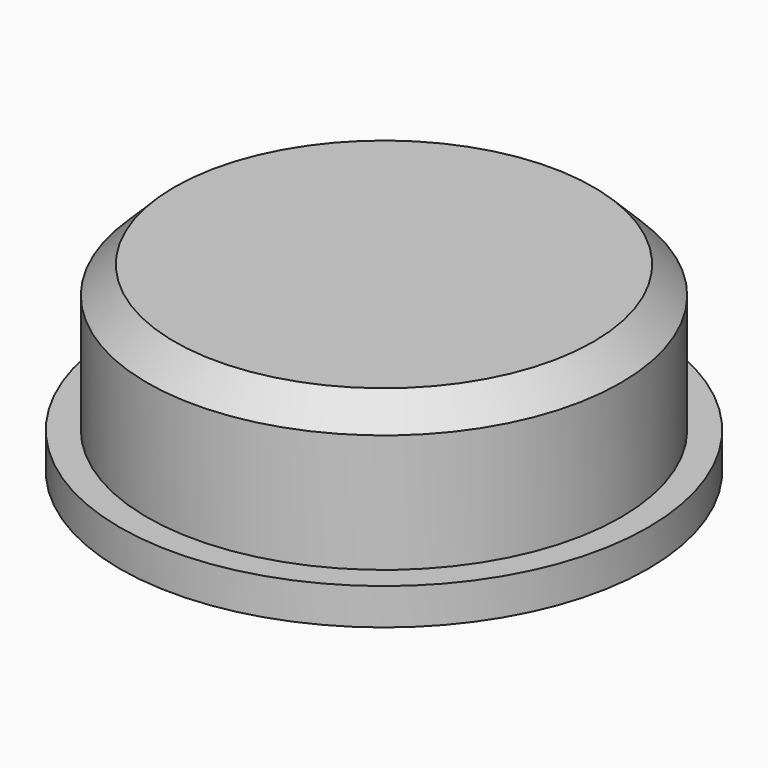
from build123d import *

# Parameters (mm, degrees)
F0_R     = 26
F0_W     = 14.36842
F0_H     = 5.710526
F1_DEPTH = 20
F0_R_2   = 29
F2_DEPTH = 4
F3_SIZE  = 3


with BuildPart() as f1:
    # F0 (on Top) → F1 (new body)
    with BuildSketch(Plane.XY):
        Circle(F0_R)
        Rectangle(F0_W, F0_H, mode=Mode.SUBTRACT)
        Rectangle(F0_W, F0_H)
    extrude(amount=F1_DEPTH)

    # F0 (on Top) → F2 (join)
    with BuildSketch(Plane.XY):
        Circle(F0_R_2)
        Circle(F0_R, mode=Mode.SUBTRACT)
    extrude(amount=F2_DEPTH)

    # F3
    f3_edges = [f1.edges().sort_by_distance(p)[0] for p in [
        (-26, 0, 20),
    ]]
    chamfer(f3_edges, length=F3_SIZE)


solid = f1.part
